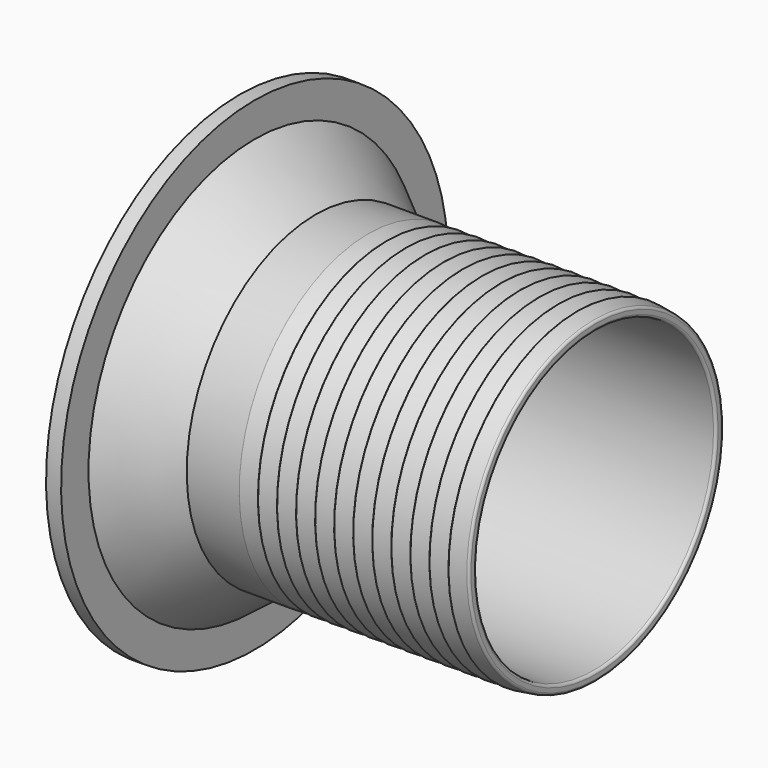
from build123d import *


with BuildPart() as f2:
    # F0 (on Front) → F2 (revolve)
    with BuildSketch(Plane.XZ):
        with BuildLine():
            ThreePointArc((0, 123.257493), (-0.49205, 124.5713), (-1.726087, 125.238647))
            Line((-1.726087, 125.238647), (-14.431522, 126.995289))
            ThreePointArc((-14.431522, 126.995289), (-14.828452, 126.876987), (-15, 126.5))
            Line((-15, 126.5), (-15, 125))
            Line((-15, 125), (-29.431522, 126.995289))
            ThreePointArc((-29.431522, 126.995289), (-29.828452, 126.876987), (-30, 126.5))
            Line((-30, 126.5), (-30, 125))
            Line((-30, 125), (-44.431522, 126.995289))
            ThreePointArc((-44.431522, 126.995289), (-44.828452, 126.876987), (-45, 126.5))
            Line((-45, 126.5), (-45, 125))
            Line((-45, 125), (-59.431522, 126.995289))
            ThreePointArc((-59.431522, 126.995289), (-59.828452, 126.876987), (-60, 126.5))
            Line((-60, 126.5), (-60, 125))
            Line((-60, 125), (-74.431522, 126.995289))
            ThreePointArc((-74.431522, 126.995289), (-74.828452, 126.876987), (-75, 126.5))
            Line((-75, 126.5), (-75, 125))
            Line((-75, 125), (-89.431522, 126.995289))
            ThreePointArc((-89.431522, 126.995289), (-89.828452, 126.876987), (-90, 126.5))
            Line((-90, 126.5), (-90, 125))
            Line((-90, 125), (-104.431522, 126.995289))
            ThreePointArc((-104.431522, 126.995289), (-104.828452, 126.876987), (-105, 126.5))
            Line((-105, 126.5), (-105, 125))
            Line((-105, 125), (-119.431522, 126.995289))
            ThreePointArc((-119.431522, 126.995289), (-119.828452, 126.876987), (-120, 126.5))
            Line((-120, 126.5), (-120, 125))
            Line((-120, 125), (-134.431522, 126.995289))
            ThreePointArc((-134.431522, 126.995289), (-134.828452, 126.876987), (-135, 126.5))
            Line((-135, 126.5), (-135, 125))
            Line((-135, 125), (-149.431522, 126.995289))
            ThreePointArc((-149.431522, 126.995289), (-149.828452, 126.876987), (-150, 126.5))
            Line((-150, 126.5), (-150, 125))
            Line((-150, 125), (-164.431522, 126.995289))
            ThreePointArc((-164.431522, 126.995289), (-164.828452, 126.876987), (-165, 126.5))
            Line((-165, 126.5), (-165, 125))
            Line((-165, 125), (-179.431522, 126.995289))
            ThreePointArc((-179.431522, 126.995289), (-179.46568, 126.998821), (-179.5, 127))
            Line((-179.5, 127), (-220.768394, 127))
            Line((-220.768394, 127), (-268.900263, 163.5))
            Line((-268.900263, 163.5), (-268.900263, 190.5))
            Line((-268.900263, 190.5), (-280.768394, 190.5))
            Line((-280.768394, 190.5), (-280.768394, 163.5))
            Line((-280.768394, 163.5), (-220.768394, 118))
            Line((-220.768394, 118), (-2, 118))
            ThreePointArc((-2, 118), (-0.585786, 118.585786), (0, 120))
            Line((0, 120), (0, 123.257493))
        make_face()
    revolve(axis=Axis((-145.232512, 0, 0), (-1, 0, 0)))


solid = f2.part
